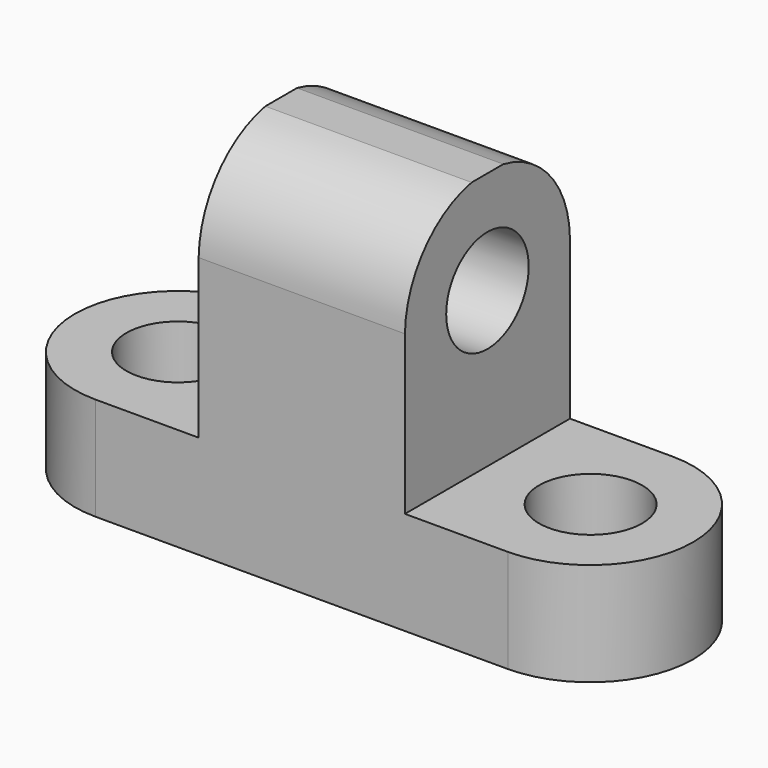
from build123d import *

# Parameters (mm, degrees)
F0_W     = 25.4
F0_H     = 12.7
F0_H_2   = 31.75
F1_DEPTH = 25.4
F2_R     = 6.35
F3_DEPTH = 25.4
F4_R     = 6.35
F5_DEPTH = 25.4
F7_DEPTH = 25.4


with BuildPart() as f1:
    # F0 (on Front) → F1 (new body)
    with BuildSketch(Plane.XZ):
        with Locations((12.7, 6.35)):
            Rectangle(F0_W, F0_H)
        with Locations((38.1, 6.35)):
            Rectangle(F0_W, F0_H)
        with Locations((63.5, 6.35)):
            Rectangle(F0_W, F0_H)
        with Locations((38.1, 28.575)):
            Rectangle(F0_W, F0_H_2)
    extrude(amount=F1_DEPTH)

    # F2 (on face) → F3 (cut)
    with BuildSketch(Plane(origin=(25.4, 0, 0), x_dir=(0, -1, 0), z_dir=(-1, 0, 0))):
        with Locations((12.7, 31.75)):
            Circle(F2_R)
        with BuildLine():
            ThreePointArc((0, 32.2180166472), (2.9688610836, 40.1479347861), (10.2620066819, 44.45))
            Line((10.2620066819, 44.45), (0, 44.45))
            Line((0, 44.45), (0, 32.2180166472))
        make_face()
        with BuildLine():
            ThreePointArc((15.1379933181, 44.45), (22.4311389164, 40.1479347861), (25.4, 32.2180166472))
            Line((25.4, 32.2180166472), (25.4, 44.45))
            Line((25.4, 44.45), (15.1379933181, 44.45))
        make_face()
    extrude(amount=-F3_DEPTH, mode=Mode.SUBTRACT)

    # F4 (on face) → F5 (cut)
    with BuildSketch(Plane.XY.offset(12.7)):
        with Locations((12.7, -12.7)):
            Circle(F4_R)
        with Locations((63.5, -12.7)):
            Circle(F4_R)
        with BuildLine():
            ThreePointArc((0, -12.7), (3.7197438789, -3.7197438789), (12.7, 0))
            Line((12.7, 0), (0, 0))
            Line((0, 0), (0, -12.7))
        make_face()
        with BuildLine():
            ThreePointArc((12.7, -25.4), (3.7197438789, -21.6802561211), (0, -12.7))
            Line((0, -12.7), (0, -25.4))
            Line((0, -25.4), (12.7, -25.4))
        make_face()
    extrude(amount=-F5_DEPTH, mode=Mode.SUBTRACT)

    # F6 (on face) → F7 (cut)
    with BuildSketch(Plane.XY.offset(12.7)):
        with BuildLine():
            ThreePointArc((63.5, 0), (76.1234988118, -12.7), (63.5, -25.4))
            Line((63.5, -25.4), (76.2, -25.4))
            Line((76.2, -25.4), (76.2, 0))
            Line((76.2, 0), (63.5, 0))
        make_face()
    extrude(amount=-F7_DEPTH, mode=Mode.SUBTRACT)


solid = f1.part
